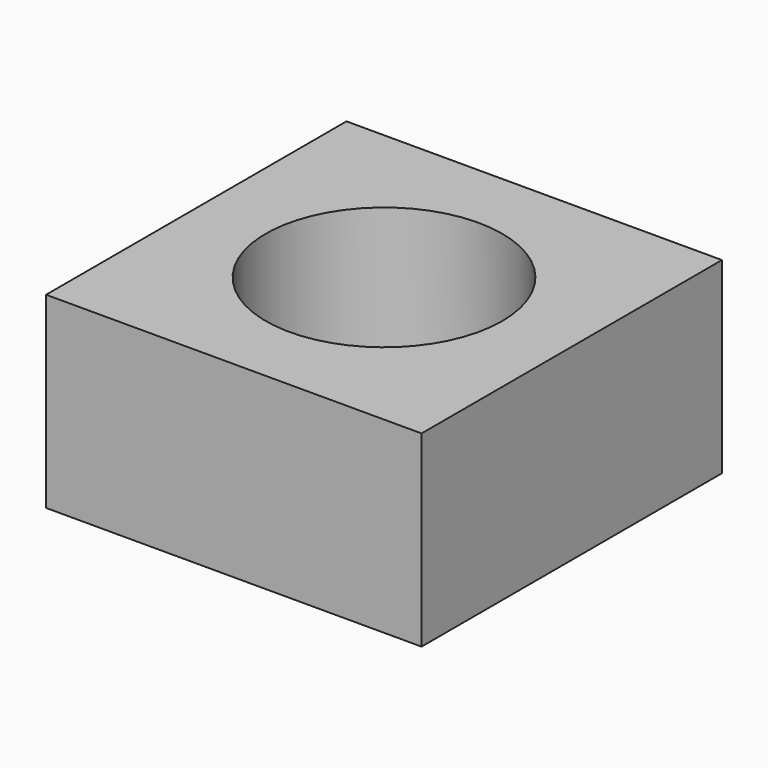
from build123d import *

# Parameters (mm, degrees)
CYLINDER036_R     = 4
CYLINDER036_DEPTH = 10
BOX015_W          = 12.7
BOX015_H          = 12.7
BOX015_DEPTH      = 6.35


with BuildPart() as cylinder036:
    # Cylinder036 → Cylinder036 (new body)
    with BuildSketch(Plane(origin=(6.35, 6.35, 0), x_dir=(1, 0, 0), z_dir=(0, 0, 1))):
        Circle(CYLINDER036_R)
    extrude(amount=CYLINDER036_DEPTH)


with BuildPart() as m8_nut002:
    # Box015 → Box015 (new body)
    with BuildSketch(Plane.XY):
        with Locations((6.35, 6.35)):
            Rectangle(BOX015_W, BOX015_H)
    extrude(amount=BOX015_DEPTH)

    # Cut013: cut Cylinder036
    add(cylinder036.part, mode=Mode.SUBTRACT)


with BuildPart() as m8_nut002_1:
    # Cut013 placement: moved
    add(m8_nut002.part.moved(Location((12.7, -6.35, 0))))


solid = m8_nut002_1.part
